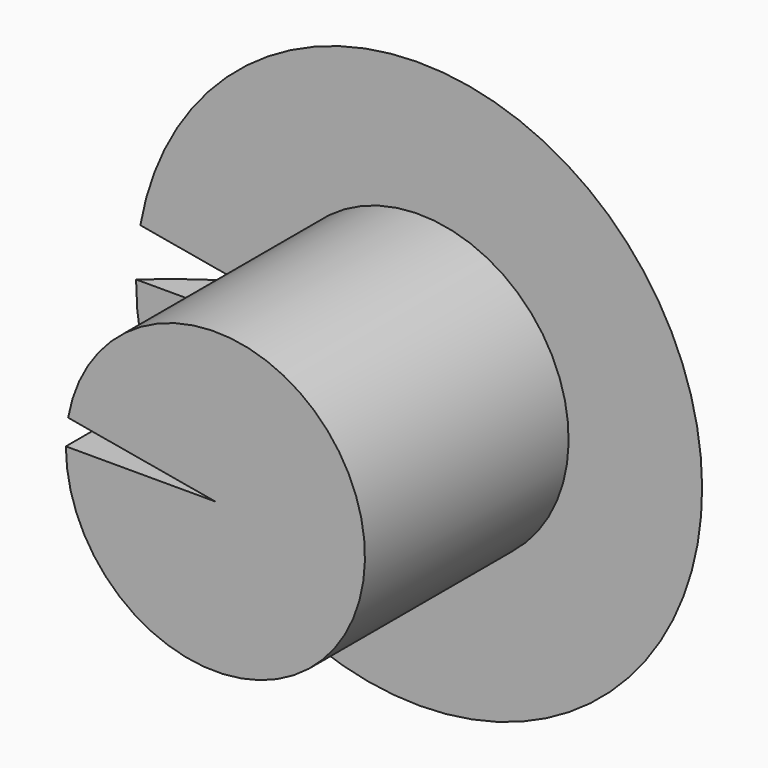
from build123d import *

# Parameters (mm, degrees)
F1_ANGLE = -350


with BuildPart() as f1:
    # F0 (on Top) → F1 (revolve)
    with BuildSketch(Plane.XY):
        with BuildLine():
            Line((0, 42.180497), (0, 0))
            Line((0, 0), (24.776513, 0))
            Line((24.776513, 0), (24.776513, 59.101045))
            ThreePointArc((24.776513, 59.101045), (-0.36289, 55.331032), (-22.117568, 42.180497))
            Line((-22.117568, 42.180497), (0, 42.180497))
        make_face()
    revolve(axis=Axis((24.776513, 29.550523, 0), (0, 1, 0)), revolution_arc=F1_ANGLE)


solid = f1.part
